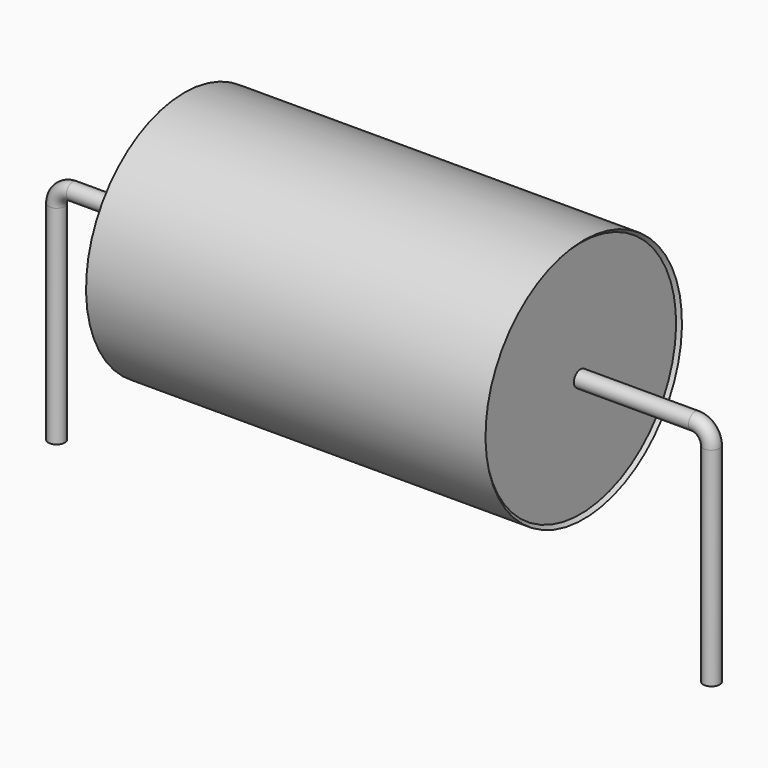
from build123d import *

# Parameters (mm, degrees)
SKETCH_R = 0.25


with BuildPart() as sweep_body:
    # Sweep: sweep along a path in Sketch001
    with BuildLine(Plane.XZ) as sweep_path:
        Line((0, -3), (0, 3.35))
        ThreePointArc((0, 3.35), (0.146443, 3.70355), (0.49999, 3.85))
        Line((0.49999, 3.85), (19.5, 3.85))
        ThreePointArc((19.5, 3.85), (19.853553, 3.703553), (20, 3.35))
        Line((20, 3.35), (20, -3))
    # Sketch → Sweep (sweep)
    with BuildSketch(Plane.XY.offset(-2)):
        Circle(SKETCH_R)
    sweep(path=sweep_path.line)


with BuildPart() as revolution:
    # Sketch002 → Revolution (revolve)
    with BuildSketch(Plane.XZ):
        Polygon((3.9, 7.6), (16.1, 7.6), (16, 7.5), (16, 3.85), (4, 3.85), (4, 7.5), align=None)
    revolve(axis=Axis((7.611803, 0, 3.85), (1, 0, 0)))


solid = Compound([sweep_body.part, revolution.part])
